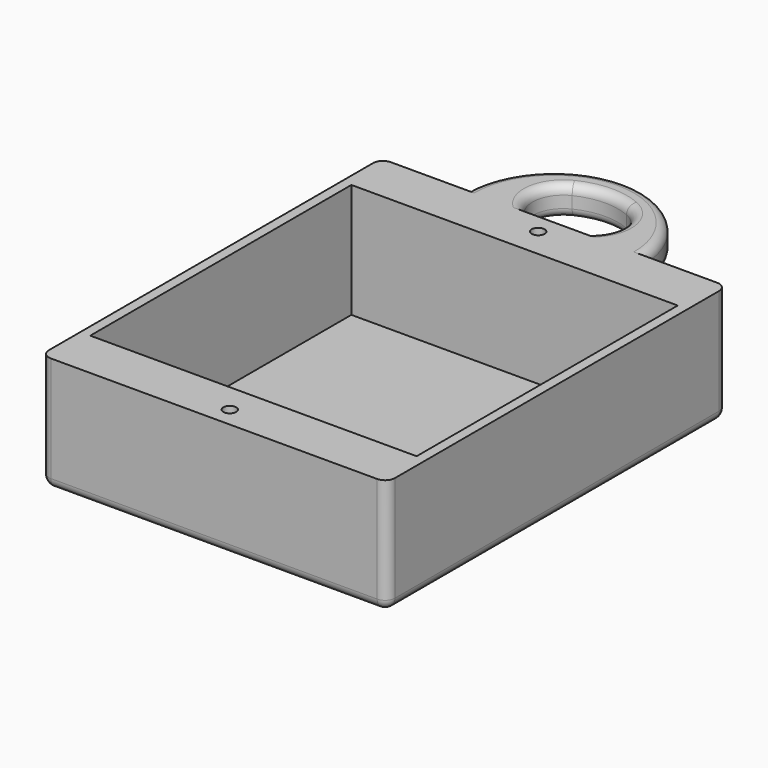
from build123d import *

# Parameters (mm, degrees)
SKETCH_W        = 35.1
SKETCH_H        = 43.1
PAD_DEPTH       = 11.72
SKETCH002_W     = 33.1
SKETCH002_H     = 33.1
POCKET_DEPTH    = 11.6
SKETCH006_R     = 0.65
POCKET004_DEPTH = 5
PAD002_DEPTH    = 3
FILLET_R        = 1
FILLET002_R     = 0.9


with BuildPart() as part:
    # Sketch → Pad (new body)
    with BuildSketch(Plane.XY):
        Rectangle(SKETCH_W, SKETCH_H)
    extrude(amount=PAD_DEPTH)

    # Sketch002 (on Face6 of Pad) → Pocket (cut)
    with BuildSketch(Plane.XY.offset(11.72)):
        Rectangle(SKETCH002_W, SKETCH002_H)
    extrude(amount=-POCKET_DEPTH, mode=Mode.SUBTRACT)

    # Sketch006 (on Face5 of Pocket) → Pocket004 (cut)
    with BuildSketch(Plane.XY.offset(11.72)):
        with Locations((0, 19.55)):
            Circle(SKETCH006_R)
        with Locations((0, -19.55)):
            Circle(SKETCH006_R)
    extrude(amount=-POCKET004_DEPTH, mode=Mode.SUBTRACT)

    # Sketch008 (on Face5 of Pocket004) → Pad002 (join)
    with BuildSketch(Plane.XY.offset(11.72)):
        with BuildLine():
            ThreePointArc((9, 21.55), (0, 30.55), (-9, 21.55))
            Line((-2.210805, 21.55), (-9, 21.55))
            ThreePointArc((-2.834383, 27.399468), (-4.579363, 24.255474), (-2.210805, 21.55))
            ThreePointArc((2.58169, 27.515306), (-0.138989, 28.048514), (-2.834383, 27.399468))
            ThreePointArc((2.210805, 21.55), (4.490762, 24.40243), (2.58169, 27.515306))
            Line((9, 21.55), (2.210805, 21.55))
        make_face()
    extrude(amount=-PAD002_DEPTH)

    # Fillet
    fillet_edges = [part.edges().sort_by_distance(p)[0] for p in [
        (-17.55, -21.55, 5.86),
        (-17.55, 0, 0),
        (0, -21.55, 0),
        (17.55, -21.55, 5.86),
        (17.55, 0, 0),
        (-17.55, 21.55, 5.86),
        (0, 21.55, 0),
        (17.55, 21.55, 5.86),
    ]]
    fillet(fillet_edges, radius=FILLET_R)

    # Fillet002
    fillet002_edges = [part.edges().sort_by_distance(p)[0] for p in [
        (0, 30.55, 11.72),
        (0, 30.55, 8.72),
        (-4.579363, 24.255474, 8.72),
        (-0.138989, 28.048514, 8.72),
        (4.490762, 24.40243, 8.72),
        (-4.579363, 24.255474, 11.72),
        (-0.138989, 28.048514, 11.72),
        (4.490762, 24.40243, 11.72),
    ]]
    fillet(fillet002_edges, radius=FILLET002_R)


solid = part.part
